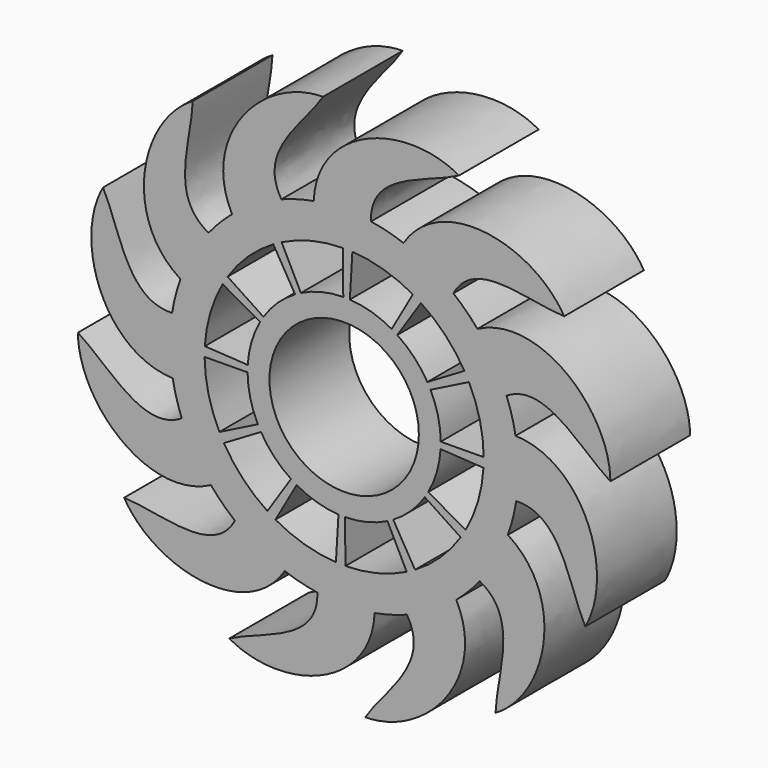
from build123d import *

# Parameters (mm, degrees)
F0_R     = 19.05
F1_DEPTH = 25.4
F3_COUNT = 12


with BuildPart() as f1:
    # F0 (on Front) → F1 (new body)
    with BuildSketch(Plane.XZ):
        with BuildLine():
            ThreePointArc((-41.7377949639, 15.1344033998), (-7.6831234343, -43.7271461338), (44.3970009653, 0))
            ThreePointArc((44.3970009653, 0), (14.7724939885, 41.8672558938), (-34.5663108784, 27.8615119291))
            ThreePointArc((-34.5663108784, 27.8615119291), (-38.6791153593, 21.7949473443), (-41.7377949639, 15.1344033998))
        make_face()
        with BuildLine():
            ThreePointArc((30.6559904103, 18.0721064124), (31.253015986, 17.0188063622), (31.8138653762, 15.9458065975))
            ThreePointArc((31.8138653762, 15.9458065975), (34.6304146039, 8.1929947261), (35.5863847309, 0))
            ThreePointArc((35.5863847309, 0), (34.4152420977, -9.0543851018), (30.9788984582, -17.5128132673))
            ThreePointArc((30.9788984582, -17.5128132673), (30.3652266448, -18.5565026077), (29.7164062853, -19.5787123096))
            ThreePointArc((29.7164062853, -19.5787123096), (17.0188063622, -31.253015986), (0.3229080478, -35.5849196797))
            ThreePointArc((0.3229080478, -35.5849196797), (-0.8877893412, -35.5753089699), (-2.0974590909, -35.5245189071))
            ThreePointArc((-2.0974590909, -35.5245189071), (-18.5565026077, -30.3652266448), (-30.6559904103, -18.0721064124))
            ThreePointArc((-30.6559904103, -18.0721064124), (-31.253015986, -17.0188063622), (-31.8138653762, -15.9458065975))
            ThreePointArc((-31.8138653762, -15.9458065975), (-35.5753089699, 0.8877893412), (-30.9788984582, 17.5128132673))
            ThreePointArc((-30.9788984582, 17.5128132673), (-30.3652266448, 18.5565026077), (-29.7164062853, 19.5787123096))
            ThreePointArc((-29.7164062853, 19.5787123096), (-17.0188063622, 31.253015986), (-0.3229080478, 35.5849196797))
            ThreePointArc((-0.3229080478, 35.5849196797), (0.8877893412, 35.5753089699), (2.0974590909, 35.5245189071))
            ThreePointArc((2.0974590909, 35.5245189071), (18.5565026077, 30.3652266448), (30.6559904103, 18.0721064124))
        make_face(mode=Mode.SUBTRACT)
        with BuildLine():
            ThreePointArc((-41.7377949639, 15.1344033998), (-38.6791153593, 21.7949473443), (-34.5663108784, 27.8615119291))
            add(Edge.make_bspline(
                [(-38.603553939, 56.0993393118), (-38.8812801549, 46.9344672316), (-44.8523311706, 33.3260222193), (-34.5663108784, 27.8615119291)],
                knots=[0, 0, 0, 0, 28.5249754922, 28.5249754922, 28.5249754922, 28.5249754922], degree=3))
            add(Edge.make_bspline(
                [(-41.7377949639, 15.1344033998), (-56.6555790407, 24.577734095), (-52.2119989513, 48.0453613593), (-38.603553939, 56.0993393118)],
                knots=[0, 0, 0, 0, 41.0846618713, 41.0846618713, 41.0846618713, 41.0846618713], degree=3))
        make_face()
        with BuildLine():
            Line((30.9788984582, -17.5128132673), (21.4377224413, -12.1190503432))
            ThreePointArc((21.4377224413, -12.1190503432), (21.0130551141, -12.8412943062), (20.5640646247, -13.5486741344))
            Line((20.5640646247, -13.5486741344), (29.7164062853, -19.5787123096))
            ThreePointArc((29.7164062853, -19.5787123096), (30.3652266448, -18.5565026077), (30.9788984582, -17.5128132673))
        make_face()
        with BuildLine():
            ThreePointArc((21.2142666876, 12.5060870618), (21.6274146437, 11.7771923869), (22.0155283003, 11.0346653029))
            Line((22.0155283003, 11.0346653029), (31.8138653762, 15.9458065975))
            ThreePointArc((31.8138653762, 15.9458065975), (31.253015986, 17.0188063622), (30.6559904103, 18.0721064124))
            Line((30.6559904103, 18.0721064124), (21.2142666876, 12.5060870618))
        make_face()
        with BuildLine():
            ThreePointArc((-0.2234557537, 24.625137405), (0.6143595296, 24.6184866931), (1.4514636756, 24.5833394373))
            Line((1.4514636756, 24.5833394373), (2.0974590909, 35.5245189071))
            ThreePointArc((2.0974590909, 35.5245189071), (0.8877893412, 35.5753089699), (-0.3229080478, 35.5849196797))
            Line((-0.3229080478, 35.5849196797), (-0.2234557537, 24.625137405))
        make_face()
        with BuildLine():
            ThreePointArc((-21.4377224413, 12.1190503432), (-21.0130551141, 12.8412943062), (-20.5640646247, 13.5486741344))
            Line((-20.5640646247, 13.5486741344), (-29.7164062853, 19.5787123096))
            ThreePointArc((-29.7164062853, 19.5787123096), (-30.3652266448, 18.5565026077), (-30.9788984582, 17.5128132673))
            Line((-30.9788984582, 17.5128132673), (-21.4377224413, 12.1190503432))
        make_face()
        with BuildLine():
            Line((-30.6559904103, -18.0721064124), (-21.2142666876, -12.5060870618))
            ThreePointArc((-21.2142666876, -12.5060870618), (-21.6274146437, -11.7771923869), (-22.0155283003, -11.0346653029))
            Line((-22.0155283003, -11.0346653029), (-31.8138653762, -15.9458065975))
            ThreePointArc((-31.8138653762, -15.9458065975), (-31.253015986, -17.0188063622), (-30.6559904103, -18.0721064124))
        make_face()
        with BuildLine():
            Line((0.3229080478, -35.5849196797), (0.2234557537, -24.625137405))
            ThreePointArc((0.2234557537, -24.625137405), (-0.6143595296, -24.6184866931), (-1.4514636756, -24.5833394373))
            Line((-1.4514636756, -24.5833394373), (-2.0974590909, -35.5245189071))
            ThreePointArc((-2.0974590909, -35.5245189071), (-0.8877893412, -35.5753089699), (0.3229080478, -35.5849196797))
        make_face()
        with BuildLine():
            ThreePointArc((21.4377224413, -12.1190503432), (23.8157082582, -6.2657293949), (24.6261512358, 0))
            ThreePointArc((24.6261512358, 0), (23.9646098878, 5.6696382261), (22.0155283003, 11.0346653029))
            ThreePointArc((22.0155283003, 11.0346653029), (21.6274146437, 11.7771923869), (21.2142666876, 12.5060870618))
            ThreePointArc((21.2142666876, 12.5060870618), (12.8412943062, 21.0130551141), (1.4514636756, 24.5833394373))
            ThreePointArc((1.4514636756, 24.5833394373), (0.6143595296, 24.6184866931), (-0.2234557537, 24.625137405))
            ThreePointArc((-0.2234557537, 24.625137405), (-11.7771923869, 21.6274146437), (-20.5640646247, 13.5486741344))
            ThreePointArc((-20.5640646247, 13.5486741344), (-21.0130551141, 12.8412943062), (-21.4377224413, 12.1190503432))
            ThreePointArc((-21.4377224413, 12.1190503432), (-24.6184866931, 0.6143595296), (-22.0155283003, -11.0346653029))
            ThreePointArc((-22.0155283003, -11.0346653029), (-21.6274146437, -11.7771923869), (-21.2142666876, -12.5060870618))
            ThreePointArc((-21.2142666876, -12.5060870618), (-12.8412943062, -21.0130551141), (-1.4514636756, -24.5833394373))
            ThreePointArc((-1.4514636756, -24.5833394373), (-0.6143595296, -24.6184866931), (0.2234557537, -24.625137405))
            ThreePointArc((0.2234557537, -24.625137405), (11.7771923869, -21.6274146437), (20.5640646247, -13.5486741344))
            ThreePointArc((20.5640646247, -13.5486741344), (21.0130551141, -12.8412943062), (21.4377224413, -12.1190503432))
        make_face()
        Circle(F0_R, mode=Mode.SUBTRACT)
    extrude(amount=F1_DEPTH)

    # F3: F1 ×12 about axis
    f3_axis = Axis((0, -7.1261581033, 0), (0, -1, 0))


with BuildPart() as f1_1:
    add(f1.part)
    for i in range(1, F3_COUNT):
        add(f1.part.rotate(f3_axis, i * 360 / F3_COUNT))


solid = f1_1.part
